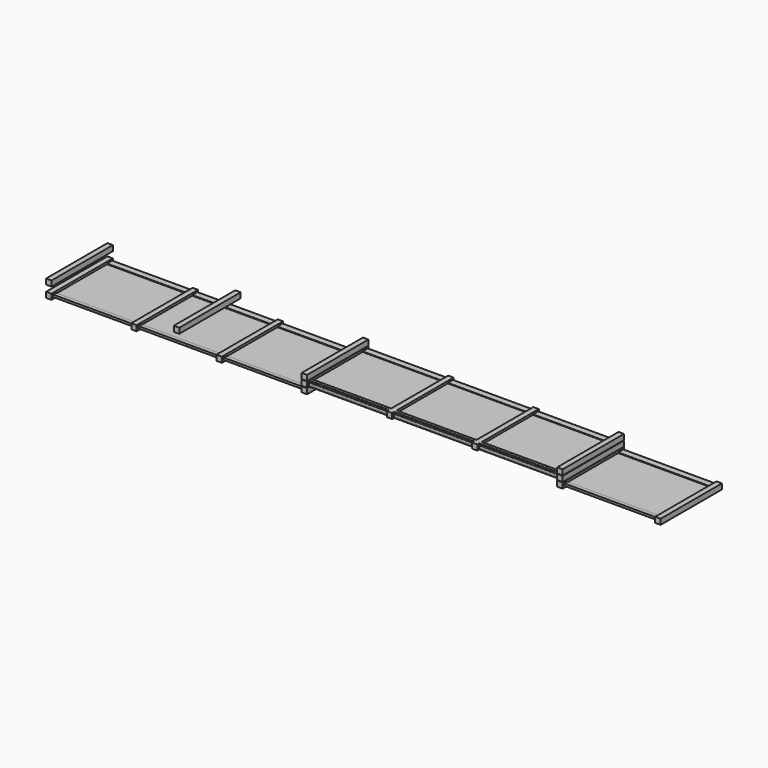
from build123d import *

# Parameters (mm, degrees)
F0_W        = 1873
F0_H        = 25
F0_W_2      = 63.5
F0_W_3      = 127
F0_H_2      = 51
F1_DEPTH    = 1800
F2_W        = 150
F2_H        = 50
F2_W_2      = 88
F3_DEPTH    = 6000
F4_DEPTH    = 50
F0_H_3      = 127
F5_DEPTH    = 1800
F0_H_4      = 22
F0_H_5      = 52.5
F0_W_4      = 2173
F6_W        = 150
F6_H        = 51
F6_W_2      = 88
F7_DEPTH    = 2370
F8_W        = 150
F8_H        = 51
F8_W_2      = 88
F9_DEPTH    = 6090
F7_FACE_W   = 2173
F7_FACE_H   = 50
F7_FACE_H_2 = 20
F9_FACE_W   = 1873
F9_FACE_H   = 50
F9_FACE_H_2 = 20
F10_DEPTH   = 50
F12_DEPTH   = 6000


with BuildPart() as f1:
    # F0 (on Front) → F1 (new body)
    with BuildSketch(Plane.XZ):
        with Locations((-2076.5718817711, 0)):
            Rectangle(F0_W, F0_H)
        with Locations((-3044.8218817711, 0)):
            Rectangle(F0_W_2, F0_H)
        with Locations((-1076.5718817711, 0)):
            Rectangle(F0_W_3, F0_H)
        with Locations((-76.5718817711, 0)):
            Rectangle(F0_W, F0_H)
        with Locations((923.4281182289, 0)):
            Rectangle(F0_W_3, F0_H)
        with Locations((1923.4281182289, 0)):
            Rectangle(F0_W, F0_H)
        with Locations((2891.6781182289, 0)):
            Rectangle(F0_W_2, F0_H)
        Polygon((-3013.0718817711, -63.5), (-3013.0718817711, -12.5), (-3076.5718817711, -12.5), (-3076.5718817711, 12.5), (-3013.0718817711, 12.5), (-3013.0718817711, 63.5), (-3140.0718817711, 63.5), (-3140.0718817711, -63.5), align=None)
        with Locations((-1076.5718817711, -38)):
            Rectangle(F0_W_3, F0_H_2)
        with Locations((-1076.5718817711, 38)):
            Rectangle(F0_W_3, F0_H_2)
        with Locations((923.4281182289, -38)):
            Rectangle(F0_W_3, F0_H_2)
        with Locations((923.4281182289, 38)):
            Rectangle(F0_W_3, F0_H_2)
        Polygon((2923.4281182289, 12.5), (2923.4281182289, -12.5), (2859.9281182289, -12.5), (2859.9281182289, -63.5), (2986.9281182289, -63.5), (2986.9281182289, 63.5), (2859.9281182289, 63.5), (2859.9281182289, 12.5), align=None)
    extrude(amount=F1_DEPTH)

    # F2 (on face) → F3 (join)
    with BuildSketch(Plane(origin=(-3140.0718817711, 0, 0), x_dir=(0, -1, 0), z_dir=(-1, 0, 0))):
        with Locations((95, 0)):
            Rectangle(F2_W, F2_H)
        with Locations((1706, 0)):
            Rectangle(F2_W_2, F2_H)
    extrude(amount=-F3_DEPTH)

    # F4 (cut): faces of the model
    f4_faces = [f1.faces().sort_by_distance(p)[0] for p in [
        (1923.4281182289, -1775, 12.5),
        (-76.5718817711, -1775, 12.5),
        (-2076.5718817711, -1775, 12.5),
        (-2076.5718817711, -10, 12.5),
        (-76.5718817711, -10, 12.5),
        (1923.4281182289, -10, 12.5),
    ]]
    extrude(f4_faces, amount=-F4_DEPTH, mode=Mode.SUBTRACT)

    # F11 (on face) → F12 (join)
    with BuildSketch(Plane.YZ.offset(2986.9281182289)):
        with BuildLine():
            Line((-1668, -58.5), (-1668, -25.5))
            Line((-1668, -25.5), (-1744, -25.5))
            Line((-1744, -25.5), (-1744, -58.5))
            ThreePointArc((-1744, -58.5), (-1742.5355339059, -62.0355339059), (-1739, -63.5))
            Line((-1739, -63.5), (-1673, -63.5))
            ThreePointArc((-1673, -63.5), (-1669.4644660941, -62.0355339059), (-1668, -58.5))
        make_face()
        with BuildLine():
            Line((-1744, 25.5), (-1668, 25.5))
            Line((-1668, 25.5), (-1668, 58.5))
            ThreePointArc((-1668, 58.5), (-1669.4644660941, 62.0355339059), (-1673, 63.5))
            Line((-1673, 63.5), (-1739, 63.5))
            ThreePointArc((-1739, 63.5), (-1742.5355339059, 62.0355339059), (-1744, 58.5))
            Line((-1744, 58.5), (-1744, 25.5))
        make_face()
    extrude(amount=-F12_DEPTH)


with BuildPart() as f5:
    # F0 (on Front) → F5 (new body)
    with BuildSketch(Plane.XZ):
        with Locations((-3076.5718817711, 137)):
            Rectangle(F0_W_3, F0_H_3)
    extrude(amount=F5_DEPTH)


with BuildPart() as f5b:
    # F0 (on Front) → F5, piece 2 (new body)
    with BuildSketch(Plane.XZ):
        Polygon((-3140.0718817711, -200.5), (-3013.0718817711, -200.5), (-3013.0718817711, -73.5), (-3140.0718817711, -73.5), (-3140.0718817711, -126), (-3140.0718817711, -148), align=None)
        with Locations((-4076.5718817711, -137)):
            Rectangle(F0_W, F0_H_4)
        with Locations((-5076.5718817711, -174.25)):
            Rectangle(F0_W_3, F0_H_5)
        with Locations((-5076.5718817711, -137)):
            Rectangle(F0_W_3, F0_H_4)
        with Locations((-5076.5718817711, -99.75)):
            Rectangle(F0_W_3, F0_H_5)
        with Locations((-6076.5718817711, -137)):
            Rectangle(F0_W, F0_H_4)
        with Locations((-7076.5718817711, -174.25)):
            Rectangle(F0_W_3, F0_H_5)
        with Locations((-7076.5718817711, -137)):
            Rectangle(F0_W_3, F0_H_4)
        with Locations((-7076.5718817711, -99.75)):
            Rectangle(F0_W_3, F0_H_5)
        with Locations((-8076.5718817711, -137)):
            Rectangle(F0_W, F0_H_4)
        Polygon((-9013.0718817711, -200.5), (-9013.0718817711, -148), (-9013.0718817711, -126), (-9013.0718817711, -73.5), (-9140.0718817711, -73.5), (-9140.0718817711, -200.5), align=None)
    extrude(amount=F5_DEPTH)

    # F8 (on face) → F9 (join)
    with BuildSketch(Plane(origin=(-9140.0718817711, 0, 0), x_dir=(0, -1, 0), z_dir=(-1, 0, 0))):
        with Locations((95, -137)):
            Rectangle(F8_W, F8_H)
        with Locations((1706, -137)):
            Rectangle(F8_W_2, F8_H)
    extrude(amount=-F9_DEPTH)


with BuildPart() as f5c:
    # F0 (on Front) → F5, piece 3 (new body)
    with BuildSketch(Plane.XZ):
        with Locations((-6076.5718817711, 137)):
            Rectangle(F0_W_3, F0_H_3)
    extrude(amount=F5_DEPTH)


with BuildPart() as f5d:
    # F0 (on Front) → F5, piece 4 (new body)
    with BuildSketch(Plane.XZ):
        with Locations((-9076.5718817711, 137)):
            Rectangle(F0_W_3, F0_H_3)
    extrude(amount=F5_DEPTH)


with BuildPart() as f5e:
    # F0 (on Front) → F5, piece 5 (new body)
    with BuildSketch(Plane.XZ):
        Polygon((2859.9281182289, -200.5), (2986.9281182289, -200.5), (2986.9281182289, -148), (2986.9281182289, -126), (2986.9281182289, -73.5), (2859.9281182289, -73.5), align=None)
        with Locations((4073.4281182289, -137)):
            Rectangle(F0_W_4, F0_H_4)
        Polygon((5159.9281182289, -126), (5159.9281182289, -148), (5159.9281182289, -200.5), (5286.9281182289, -200.5), (5286.9281182289, -73.5), (5159.9281182289, -73.5), align=None)
    extrude(amount=F5_DEPTH)

    # F6 (on face) → F7 (join)
    with BuildSketch(Plane.YZ.offset(5286.9281182289)):
        with Locations((-95, -137)):
            Rectangle(F6_W, F6_H)
        with Locations((-1706, -137)):
            Rectangle(F6_W_2, F6_H)
    extrude(amount=-F7_DEPTH)


with BuildPart() as f5f:
    # F0 (on Front) → F5, piece 6 (new body)
    with BuildSketch(Plane.XZ):
        with Locations((2923.4281182289, 137)):
            Rectangle(F0_W_3, F0_H_3)
    extrude(amount=F5_DEPTH)


with BuildPart() as f10_tool:
    # F7_face (on face) + F9_face (on face) → F10 (new body)
    with BuildSketch(Plane(origin=(4073.4281182289, -1775, -148), x_dir=(1, 0, 0), z_dir=(0, 0, -1))):
        Rectangle(F7_FACE_W, F7_FACE_H)
        with Locations((0, -1765)):
            Rectangle(F7_FACE_W, F7_FACE_H_2)
    with BuildSketch(Plane(origin=(-4076.5718817711, -1775, -148), x_dir=(1, 0, 0), z_dir=(0, 0, -1))):
        Rectangle(F9_FACE_W, F9_FACE_H)
        with Locations((-2000, 0)):
            Rectangle(F9_FACE_W, F9_FACE_H)
        with Locations((-4000, 0)):
            Rectangle(F9_FACE_W, F9_FACE_H)
        with Locations((-4000, -1765)):
            Rectangle(F9_FACE_W, F9_FACE_H_2)
        with Locations((-2000, -1765)):
            Rectangle(F9_FACE_W, F9_FACE_H_2)
        with Locations((0, -1765)):
            Rectangle(F9_FACE_W, F9_FACE_H_2)
    extrude(amount=-F10_DEPTH)


with BuildPart() as f5b_1:
    add(f5b.part)

    # F10: cut by f10_tool
    add(f10_tool.part, mode=Mode.SUBTRACT)


with BuildPart() as f5e_1:
    add(f5e.part)

    # F10: cut by f10_tool
    add(f10_tool.part, mode=Mode.SUBTRACT)


solid = Compound([f1.part, f5.part, f5c.part, f5d.part, f5f.part, f5b_1.part, f5e_1.part])
